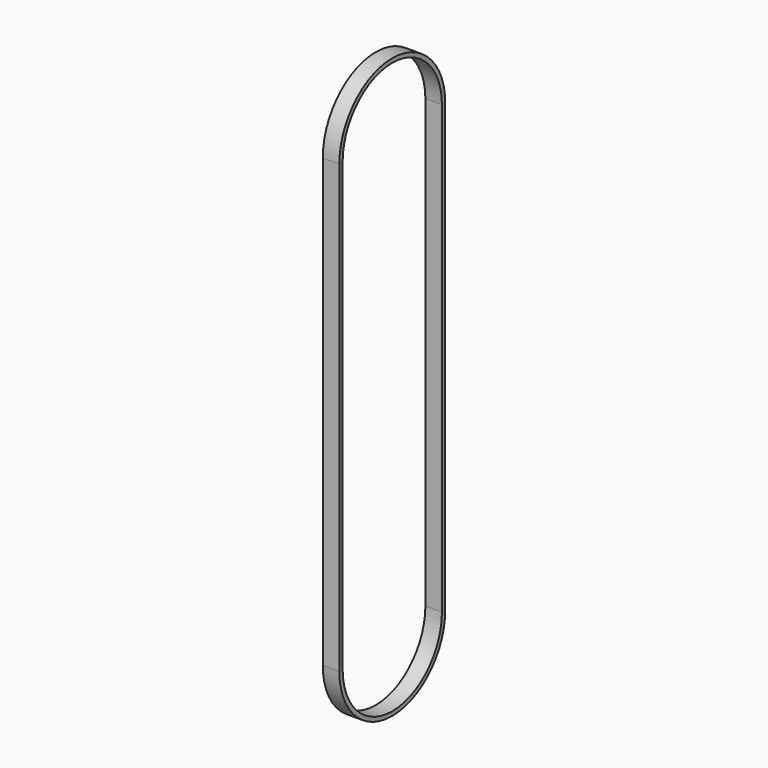
from build123d import *

# Parameters (mm, degrees)
F1_DEPTH = 6.35


with BuildPart() as f1:
    # F0 (on Right) → F1 (new body, symmetric)
    with BuildSketch(Plane.YZ):
        with BuildLine():
            Line((-50.8, 342.9), (-50.8, 0))
            ThreePointArc((-50.8, 0), (0, -50.8), (50.8, 0))
            Line((50.8, 0), (50.8, 342.9))
            ThreePointArc((50.8, 342.9), (0, 393.7), (-50.8, 342.9))
        make_face()
        with BuildLine():
            ThreePointArc((-47.625, 342.9), (0, 390.525), (47.625, 342.9))
            Line((47.625, 342.9), (47.625, 0))
            ThreePointArc((47.625, 0), (0, -47.625), (-47.625, 0))
            Line((-47.625, 0), (-47.625, 342.9))
        make_face(mode=Mode.SUBTRACT)
    extrude(amount=F1_DEPTH, both=True)


solid = f1.part
